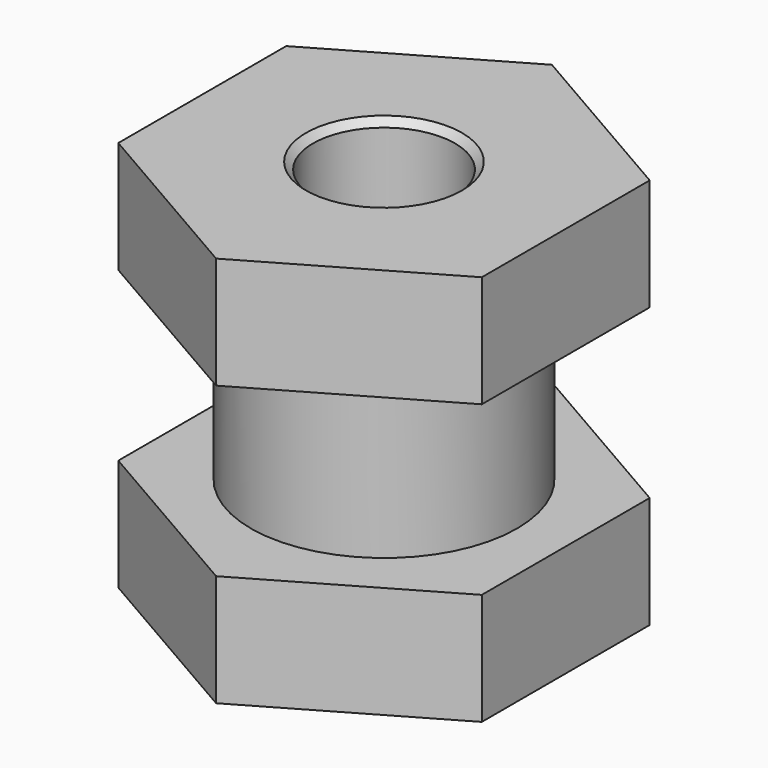
from build123d import *

# Parameters (mm, degrees)
F1_DEPTH = 4
F2_R     = 4.7625
F3_DEPTH = 6
F5_DEPTH = 4
F6_R     = 2.54
F7_DEPTH = 25
F8_SIZE  = 0.25


with BuildPart() as f1:
    # F0 (on Top) → F1 (new body)
    with BuildSketch(Plane.XY):
        Polygon((0, 7.505553), (-6.5, 3.752776), (-6.5, -3.752777), (0, -7.505553), (6.5, -3.752776), (6.5, 3.752777), align=None)
    extrude(amount=F1_DEPTH)

    # F2 (on face) → F3 (join)
    with BuildSketch(Plane.XY.offset(4)):
        Circle(F2_R)
    extrude(amount=F3_DEPTH)

    # F4 (on face) → F5 (join)
    with BuildSketch(Plane.XY.offset(10)):
        Polygon((-6.5, 3.752777), (-6.5, -3.752777), (0, -7.505553), (6.5, -3.752777), (6.5, 3.752777), (0, 7.505553), align=None)
    extrude(amount=F5_DEPTH)

    # F6 (on face) → F7 (cut)
    with BuildSketch(Plane.XY.offset(14)):
        Circle(F6_R)
    extrude(amount=-F7_DEPTH, mode=Mode.SUBTRACT)

    # F8
    f8_edges = [f1.edges().sort_by_distance(p)[0] for p in [
        (-2.54, 0, 14),
        (-2.54, 0, 0),
    ]]
    chamfer(f8_edges, length=F8_SIZE)


solid = f1.part
